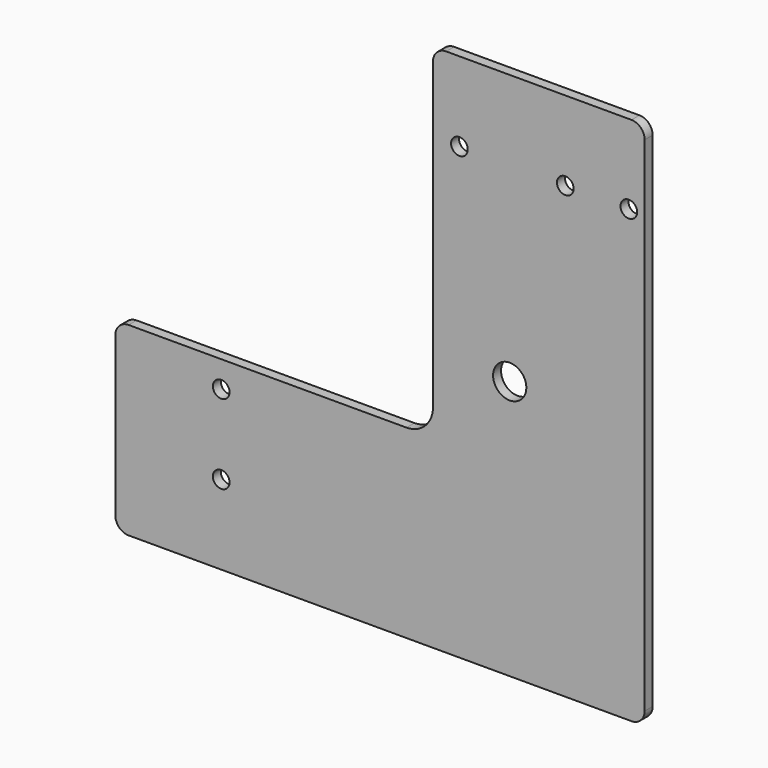
from build123d import *

# Parameters (mm, degrees)
F0_R     = 4.0005
F0_R_2   = 9.525
F0_R_3   = 7.9756
F1_DEPTH = 4.7752


with BuildPart() as f1:
    # F0 (on Front) → F1 (new body)
    with BuildSketch(Plane.XZ):
        with BuildLine():
            ThreePointArc((-6.35, 0), (-1.859872, 1.859872), (0, 6.35))
            Line((0, 6.35), (0, 247.65))
            ThreePointArc((0, 247.65), (-1.859872, 252.140128), (-6.35, 254))
            Line((-6.35, 254), (-95.25, 254))
            ThreePointArc((-95.25, 254), (-99.740128, 252.140128), (-101.6, 247.65))
            Line((-101.6, 247.65), (-101.6, 176.188146))
            ThreePointArc((-101.6, 176.188146), (-35.670644, 180.900035), (-1.27, 124.46))
            ThreePointArc((-1.27, 124.46), (-46.17483, 63.743695), (-117.379281, 88.9))
            Line((-117.379281, 88.9), (-247.65, 88.9))
            ThreePointArc((-247.65, 88.9), (-252.140128, 87.040128), (-254, 82.55))
            Line((-254, 82.55), (-254, 6.35))
            ThreePointArc((-254, 6.35), (-252.140128, 1.859872), (-247.65, 0))
            Line((-247.65, 0), (-6.35, 0))
        make_face()
        with Locations((-203.2, 38.1)):
            Circle(F0_R, mode=Mode.SUBTRACT)
        with Locations((-203.2, 76.2)):
            Circle(F0_R, mode=Mode.SUBTRACT)
        with Locations((-33.35242, 48.26)):
            Circle(F0_R_2, mode=Mode.SUBTRACT)
        with Locations((-88.9, 215.9)):
            Circle(F0_R, mode=Mode.SUBTRACT)
        with Locations((-38.1, 215.9)):
            Circle(F0_R, mode=Mode.SUBTRACT)
        with Locations((-7.62, 215.9)):
            Circle(F0_R, mode=Mode.SUBTRACT)
        with Locations((-33.35242, 48.26)):
            Circle(F0_R_2)
        with BuildLine():
            ThreePointArc((-1.27, 124.46), (-35.670644, 180.900035), (-101.6, 176.188146))
            Line((-101.6, 176.188146), (-101.6, 101.6))
            ThreePointArc((-101.6, 101.6), (-105.319744, 92.619744), (-114.3, 88.9))
            Line((-114.3, 88.9), (-117.379281, 88.9))
            ThreePointArc((-117.379281, 88.9), (-46.17483, 63.743695), (-1.27, 124.46))
        make_face()
        with Locations((-64.77, 124.46)):
            Circle(F0_R_3, mode=Mode.SUBTRACT)
    extrude(amount=F1_DEPTH)


solid = f1.part
